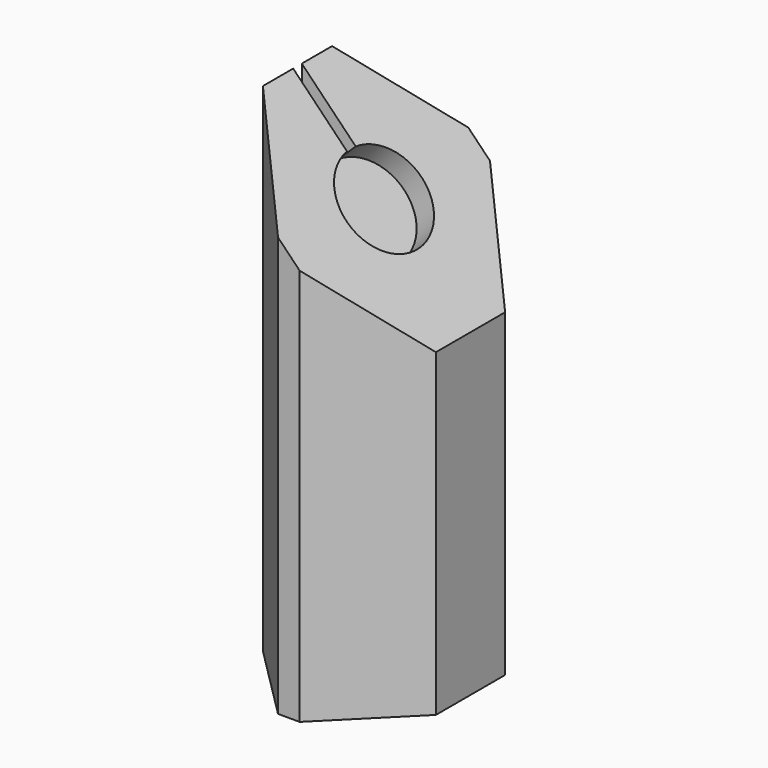
from build123d import *

# Parameters (mm, degrees)
F0_W      = 50.8
F0_H      = 69.85
F1_DEPTH  = 146.05
F3_DEPTH  = 69.851
F4_R      = 13.843
F5_DEPTH  = 7.112
F6_SIZE   = 22.225
F7_W      = 3.175
F7_H      = 146.05
F8_DEPTH  = 9.525
F10_DEPTH = 7.112


with BuildPart() as f1:
    # F0 (on Top) → F1 (new body)
    with BuildSketch(Plane.XY):
        with Locations((25.4, 34.925)):
            Rectangle(F0_W, F0_H)
    extrude(amount=F1_DEPTH)

    # F2 (on face) → F3 (cut, through all)
    with BuildSketch(Plane.XZ):
        Polygon((50.8, 146.05), (0, 146.05), (50.8, 93.7700346112), align=None)
    extrude(amount=-F3_DEPTH, mode=Mode.SUBTRACT)

    # F4 (on face) → F5 (cut)
    with BuildSketch(Plane(origin=(72.9948999902, 0, 70.9285266723), x_dir=(0, 1, 0), z_dir=(0.7171851159, 0, 0.6968827086))):
        with Locations((34.925, 68.2968588571)):
            Circle(F4_R)
    extrude(amount=-F5_DEPTH, mode=Mode.SUBTRACT)

    # F6
    f6_edges = [f1.edges().sort_by_distance(p)[0] for p in [
        (50.8, 0, 46.885017),
        (50.8, 69.85, 46.885017),
        (0, 69.85, 73.025),
        (0, 0, 73.025),
    ]]
    chamfer(f6_edges, length=F6_SIZE)

    # F7 (on face) → F8 (cut)
    with BuildSketch(Plane(origin=(0, 0, 0), x_dir=(0, -1, 0), z_dir=(-1, 0, 0))):
        with Locations((-34.925, 73.025)):
            Rectangle(F7_W, F7_H)
    extrude(amount=-F8_DEPTH, mode=Mode.SUBTRACT)

    # F9 (on face) → F10 (cut)
    with BuildSketch(Plane(origin=(72.9948999902, 0, 70.9285266723), x_dir=(0, 1, 0), z_dir=(0.7171851159, 0, 0.6968827086))):
        with BuildLine():
            Line((36.5125, 91.0768759299), (33.3375, 91.0768759299))
            Line((33.3375, 91.0768759299), (33.3375, 82.048531219))
            ThreePointArc((33.3375, 82.048531219), (34.925, 82.1398588571), (36.5125, 82.048531219))
            Line((36.5125, 82.048531219), (36.5125, 91.0768759299))
        make_face()
    extrude(amount=-F10_DEPTH, mode=Mode.SUBTRACT)


solid = f1.part
